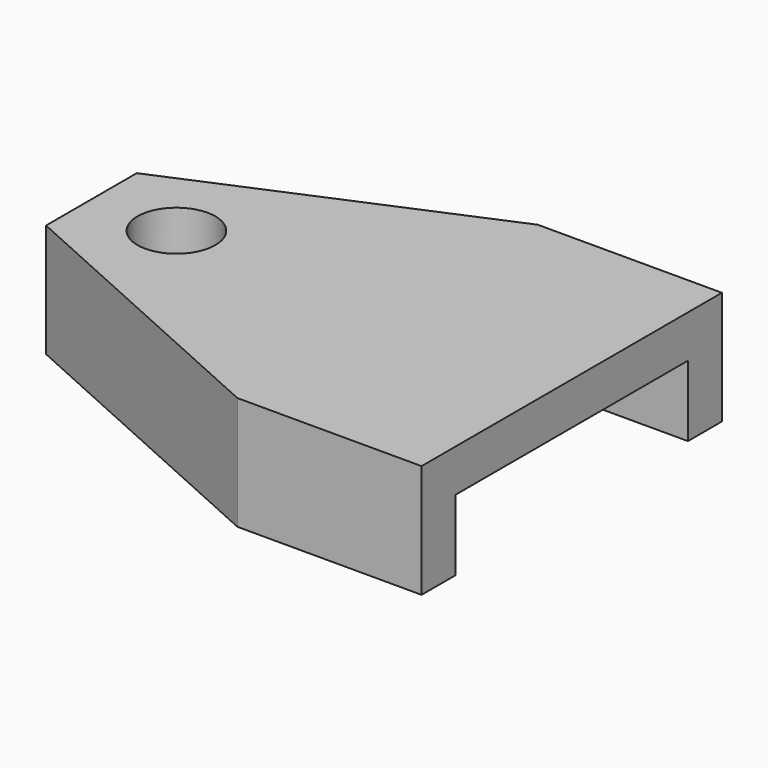
from build123d import *

# Parameters (mm, degrees)
F0_R     = 2.75
F1_DEPTH = 5
F2_R     = 2.75
F3_DEPTH = 3


with BuildPart() as f1:
    # F0 (on Top) → F1 (new body)
    with BuildSketch(Plane.XY):
        Polygon((19.990487, 11.568891), (19.990487, 10), (28.103376, 10), (28.103376, 13), (15.103376, 13), (-6, 4), (-6, -4), (15.103376, -13.5), (28.103376, -13.5), (28.103376, -10.5), (19.990487, -10.5), (19.990487, -11.893576), (17.027812, -11.893576), (17.027812, -10.5), (12.386576, -10.5), (12.386576, -5.5), (18.103376, -5.5), (18.103376, 0.544053), (12.386576, 0.544053), (12.386576, 1.988346), (18.103376, 1.988346), (18.103376, 5), (12.386576, 5), (12.386576, 10), (17.027812, 10), (17.027812, 11.568891), align=None)
        Circle(F0_R, mode=Mode.SUBTRACT)
    extrude(amount=F1_DEPTH)

    # F2 (on face) → F3 (join)
    with BuildSketch(Plane.XY.offset(5)):
        Polygon((15.103376, 13), (-6, 4), (-6, -4), (15.103376, -13.5), (28.103376, -13.5), (28.103376, 13), align=None)
        Circle(F2_R, mode=Mode.SUBTRACT)
    extrude(amount=F3_DEPTH)


solid = f1.part
